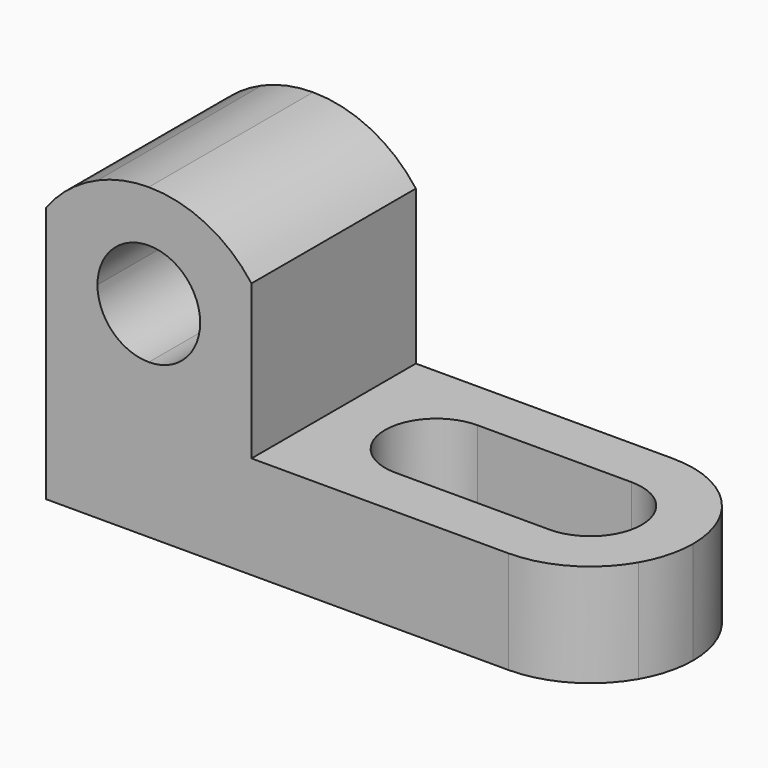
from build123d import *

# Parameters (mm, degrees)
F0_W     = 69.85
F0_H     = 38.1
F1_DEPTH = 25.4
F2_W     = 44.45
F2_H     = 25.4
F3_DEPTH = 25.401
F5_DEPTH = 25.401
F7_DEPTH = 12.701


with BuildPart() as f1:
    # F0 (on Front) → F1 (new body)
    with BuildSketch(Plane.XZ):
        with Locations((-3.4175124019, 11.064895078)):
            Rectangle(F0_W, F0_H)
    extrude(amount=F1_DEPTH)

    # F2 (on face) → F3 (cut, through all)
    with BuildSketch(Plane.XZ.offset(25.4)):
        with Locations((9.2824875981, 17.414895078)):
            Rectangle(F2_W, F2_H)
    extrude(amount=-F3_DEPTH, mode=Mode.SUBTRACT)

    # F4 (on face) → F5 (cut, through all)
    with BuildSketch(Plane.XZ.offset(25.4)):
        with BuildLine():
            Line((-19.2925124019, 30.114895078), (-19.2925124019, 28.7895729095))
            ThreePointArc((-19.2925124019, 28.7895729095), (-15.79175244, 26.6889172554), (-12.9425124019, 23.764895078))
            Line((-12.9425124019, 23.764895078), (-12.9425124019, 30.114895078))
            Line((-12.9425124019, 30.114895078), (-19.2925124019, 30.114895078))
        make_face()
        with BuildLine():
            Line((-38.3425124019, 30.114895078), (-38.3425124019, 23.764895078))
            ThreePointArc((-38.3425124019, 23.764895078), (-35.4932723639, 26.6889172554), (-31.9925124019, 28.7895729095))
            Line((-31.9925124019, 28.7895729095), (-31.9925124019, 30.114895078))
            Line((-31.9925124019, 30.114895078), (-38.3425124019, 30.114895078))
        make_face()
        with BuildLine():
            ThreePointArc((-19.2925124019, 17.414895078), (-21.1523843414, 21.9050231385), (-25.6425124019, 23.764895078))
            ThreePointArc((-25.6425124019, 23.764895078), (-30.1326404625, 21.9050231385), (-31.9925124019, 17.414895078))
            ThreePointArc((-31.9925124019, 17.414895078), (-30.132640455, 12.92476701), (-25.6425123807, 11.064895078))
            ThreePointArc((-25.6425123807, 11.064895078), (-21.1523843339, 12.924767025), (-19.2925124019, 17.414895078))
        make_face()
        with BuildLine():
            Line((-19.2925124019, 30.114895078), (-25.6425124019, 30.114895078))
            ThreePointArc((-25.6425124019, 30.114895078), (-22.3990968084, 29.7800327958), (-19.2925124019, 28.7895729095))
            Line((-19.2925124019, 28.7895729095), (-19.2925124019, 30.114895078))
        make_face()
        with BuildLine():
            Line((-31.9925124019, 30.114895078), (-31.9925124019, 28.7895729095))
            ThreePointArc((-31.9925124019, 28.7895729095), (-28.8859279955, 29.7800327958), (-25.6425124019, 30.114895078))
            Line((-25.6425124019, 30.114895078), (-31.9925124019, 30.114895078))
        make_face()
    extrude(amount=-F5_DEPTH, mode=Mode.SUBTRACT)

    # F6 (on face) → F7 (cut, through all)
    with BuildSketch(Plane.XY.offset(4.714895078)):
        with BuildLine():
            ThreePointArc((6.1074875981, -12.7), (4.2476156561, -8.209871937), (-0.242512409, -6.35))
            Line((-0.2425124019, -6.35), (-0.2425124019, -19.05))
            ThreePointArc((-0.2425123804, -19.05), (4.2476156662, -17.1901280529), (6.1074875981, -12.7))
        make_face()
        with BuildLine():
            Line((18.8074875981, -19.05), (18.8074875981, -6.35))
            ThreePointArc((18.8074875981, -6.35), (12.4574875981, -12.7), (18.8074875981, -19.05))
        make_face()
        with BuildLine():
            ThreePointArc((25.1574875981, -12.7), (23.2976156586, -8.2098719395), (18.8074875981, -6.35))
            Line((18.8074875981, -6.35), (18.8074875981, -19.05))
            ThreePointArc((18.8074875981, -19.05), (23.2976156586, -17.1901280605), (25.1574875981, -12.7))
        make_face()
        with BuildLine():
            Line((18.8074875981, -6.35), (-0.242512409, -6.35))
            ThreePointArc((-0.242512409, -6.35), (4.2476156561, -8.209871937), (6.1074875981, -12.7))
            ThreePointArc((6.1074875981, -12.7), (4.2476156662, -17.1901280529), (-0.2425123804, -19.05))
            Line((-0.2425123804, -19.05), (18.8074875981, -19.05))
            ThreePointArc((18.8074875981, -19.05), (12.4574875981, -12.7), (18.8074875981, -6.35))
        make_face()
        with BuildLine():
            Line((31.5074875981, 0), (18.8074875981, 0))
            ThreePointArc((18.8074875981, 0), (25.1574875981, -1.7014773719), (29.8060102261, -6.35))
            Line((29.8060102261, -6.35), (31.5074875981, -6.35))
            Line((31.5074875981, -6.35), (31.5074875981, 0))
        make_face()
        with BuildLine():
            ThreePointArc((29.8060102261, -19.05), (25.1574875981, -23.6985226281), (18.8074875981, -25.4))
            Line((18.8074875981, -25.4), (31.5074875981, -25.4))
            Line((31.5074875981, -25.4), (31.5074875981, -19.05))
            Line((31.5074875981, -19.05), (29.8060102261, -19.05))
        make_face()
        with BuildLine():
            Line((31.5074875981, -19.05), (31.5074875981, -12.7))
            ThreePointArc((31.5074875981, -12.7), (31.0747455919, -15.9870018728), (29.8060102261, -19.05))
            Line((29.8060102261, -19.05), (31.5074875981, -19.05))
        make_face()
        with BuildLine():
            Line((31.5074875981, -6.35), (29.8060102261, -6.35))
            ThreePointArc((29.8060102261, -6.35), (31.0747455919, -9.4129981272), (31.5074875981, -12.7))
            Line((31.5074875981, -12.7), (31.5074875981, -6.35))
        make_face()
        with BuildLine():
            Line((-0.2425124019, -19.05), (-0.2425124019, -6.35))
            ThreePointArc((-0.242512409, -6.35), (-6.5925124019, -12.7000000143), (-0.2425123804, -19.05))
        make_face()
    extrude(amount=-F7_DEPTH, mode=Mode.SUBTRACT)


solid = f1.part
